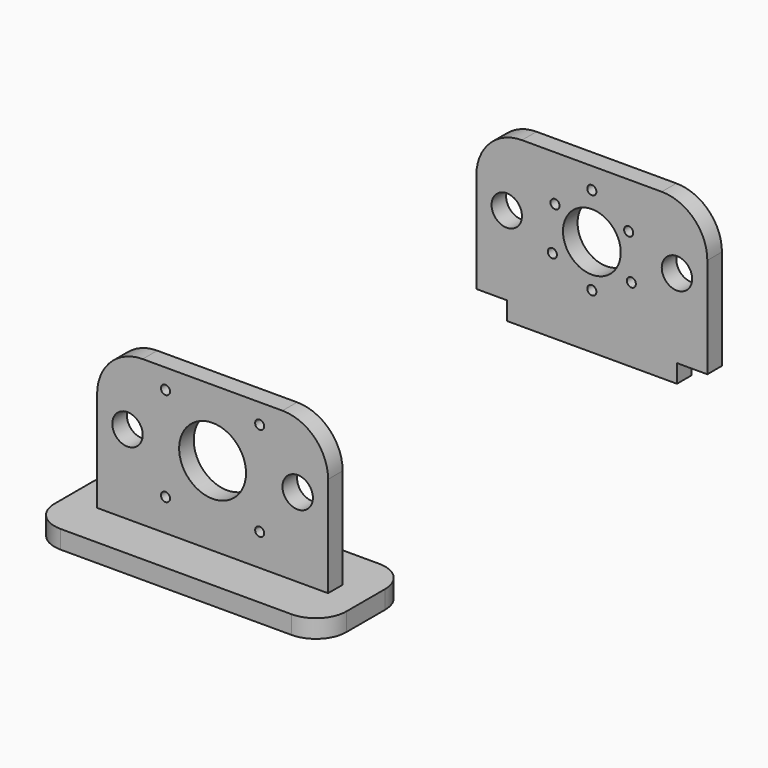
from build123d import *

# Parameters (mm, degrees)
F0_R     = 1.5
F0_R_2   = 5
F0_R_3   = 11
F1_DEPTH = 6
F3_R     = 1.5
F3_R_2   = 5
F3_R_3   = 9.5
F4_DEPTH = 6
F5_W     = 56
F5_H     = 6
F6_DEPTH = 6


with BuildPart() as f1:
    # F0 (on Front) → F1 (new body)
    with BuildSketch(Plane.XZ):
        with BuildLine():
            Line((23, 22), (-23, 22))
            ThreePointArc((-23, 22), (-33.6066017178, 17.6066017178), (-38, 7))
            Line((-38, 7), (-38, -26))
            Line((-38, -26), (-28, -26))
            Line((-28, -26), (-28, -32))
            Line((-28, -32), (28, -32))
            Line((28, -32), (28, -26))
            Line((28, -26), (38, -26))
            Line((38, -26), (38, 7))
            ThreePointArc((38, 7), (33.6066017178, 17.6066017178), (23, 22))
        make_face()
        with Locations((-15.5, -15.5)):
            Circle(F0_R, mode=Mode.SUBTRACT)
        with Locations((15.5, -15.5)):
            Circle(F0_R, mode=Mode.SUBTRACT)
        with Locations((-28, 0)):
            Circle(F0_R_2, mode=Mode.SUBTRACT)
        with Locations((-15.5, 15.5)):
            Circle(F0_R, mode=Mode.SUBTRACT)
        Circle(F0_R_3, mode=Mode.SUBTRACT)
        with Locations((28, 0)):
            Circle(F0_R_2, mode=Mode.SUBTRACT)
        with Locations((15.5, 15.5)):
            Circle(F0_R, mode=Mode.SUBTRACT)
    extrude(amount=F1_DEPTH)


with BuildPart() as f4:
    # F3 (on offset) → F4 (new body)
    with BuildSketch(Plane(origin=(0, 150, 0), x_dir=(-1, 0, 0), z_dir=(0, 1, 0))):
        with BuildLine():
            Line((-38, 7), (-38, -26))
            Line((-38, -26), (-28, -26))
            Line((-28, -26), (-28, -32))
            Line((-28, -32), (28, -32))
            Line((28, -32), (28, -26))
            Line((28, -26), (38, -26))
            Line((38, -26), (38, 7))
            ThreePointArc((38, 7), (33.6066017178, 17.6066017178), (23, 22))
            Line((23, 22), (-23, 22))
            ThreePointArc((-23, 22), (-33.6066017178, 17.6066017178), (-38, 7))
        make_face()
        with Locations((-12.9903810568, -7.5)):
            Circle(F3_R, mode=Mode.SUBTRACT)
        with Locations((0, -14)):
            Circle(F3_R, mode=Mode.SUBTRACT)
        with Locations((12.9903810568, -7.5)):
            Circle(F3_R, mode=Mode.SUBTRACT)
        with Locations((-28, 0)):
            Circle(F3_R_2, mode=Mode.SUBTRACT)
        with Locations((-12.124355653, 7)):
            Circle(F3_R, mode=Mode.SUBTRACT)
        Circle(F3_R_3, mode=Mode.SUBTRACT)
        with Locations((12.124355653, 7)):
            Circle(F3_R, mode=Mode.SUBTRACT)
        with Locations((28, 0)):
            Circle(F3_R_2, mode=Mode.SUBTRACT)
        with Locations((0, 15)):
            Circle(F3_R, mode=Mode.SUBTRACT)
    extrude(amount=F4_DEPTH)


with BuildPart() as f6:
    # F5 (on face) → F6 (new body)
    with BuildSketch(Plane(origin=(0, 0, -32), x_dir=(1, 0, 0), z_dir=(0, 0, -1))):
        with BuildLine():
            ThreePointArc((48, 11), (45.0710678119, 18.0710678119), (38, 21))
            Line((38, 21), (-38, 21))
            ThreePointArc((-38, 21), (-45.0710678119, 18.0710678119), (-48, 11))
            Line((-48, 11), (-48, -5))
            ThreePointArc((-48, -5), (-45.0710678119, -12.0710678119), (-38, -15))
            Line((-38, -15), (38, -15))
            ThreePointArc((38, -15), (45.0710678119, -12.0710678119), (48, -5))
            Line((48, -5), (48, 11))
        make_face()
        with Locations((0, 3)):
            Rectangle(F5_W, F5_H, mode=Mode.SUBTRACT)
    extrude(amount=-F6_DEPTH)


solid = Compound([f1.part, f4.part, f6.part])
